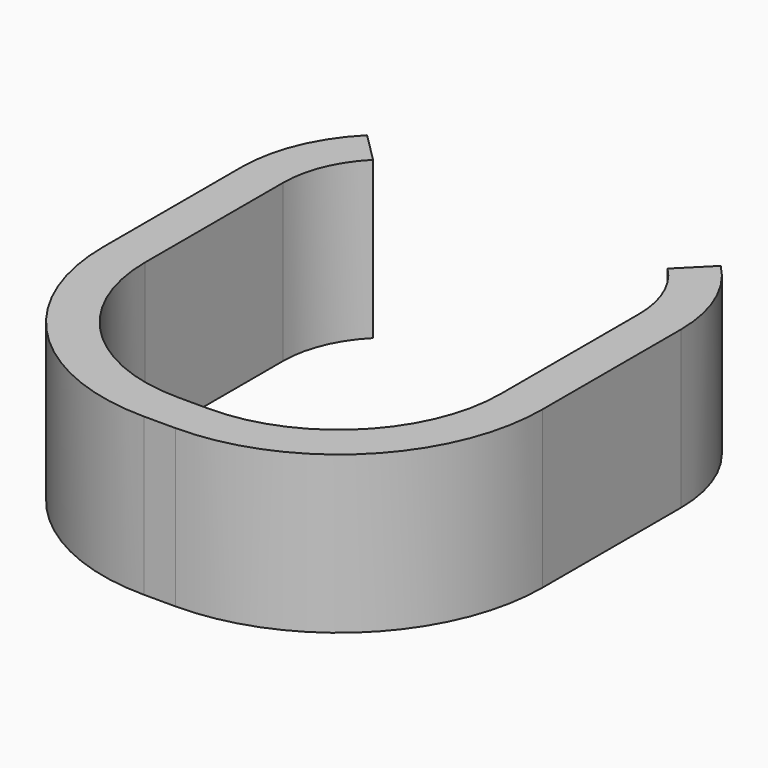
from build123d import *

# Parameters (mm, degrees)
F1_DEPTH = 15


with BuildPart() as f1:
    # F0 (on Top) → F1 (new body)
    with BuildSketch(Plane.XY):
        with BuildLine():
            ThreePointArc((-17, 11), (-16.238795, 14.826834), (-14.071068, 18.071068))
            Line((-14.071068, 18.071068), (-16.899495, 20.899495))
            ThreePointArc((-16.899495, 20.899495), (-19.934313, 16.357568), (-21, 11))
            Line((-21, 11), (-21, -5.5))
            ThreePointArc((-21, -5.5), (-15.288582, -19.288582), (-1.5, -25))
            Line((-1.5, -25), (1.5, -25))
            ThreePointArc((1.5, -25), (15.288582, -19.288582), (21, -5.5))
            Line((21, -5.5), (21, 11))
            ThreePointArc((21, 11), (19.934313, 16.357568), (16.899495, 20.899495))
            Line((16.899495, 20.899495), (14.071068, 18.071068))
            ThreePointArc((14.071068, 18.071068), (16.238795, 14.826834), (17, 11))
            Line((17, 11), (17, -5.5))
            ThreePointArc((17, -5.5), (12.460155, -16.460155), (1.5, -21))
            Line((1.5, -21), (-1.5, -21))
            ThreePointArc((-1.5, -21), (-12.460155, -16.460155), (-17, -5.5))
            Line((-17, -5.5), (-17, 11))
        make_face()
    extrude(amount=F1_DEPTH)


solid = f1.part
